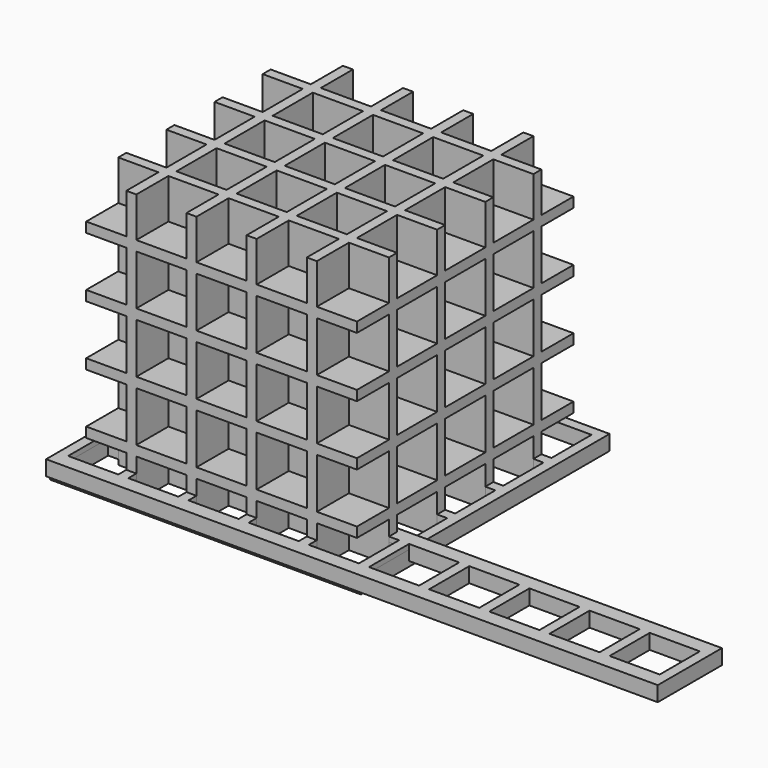
from build123d import *

# Parameters (mm, degrees)
BOX_W            = 10
BOX_H            = 10
BOX_DEPTH        = 10
ARRAY_X_COUNT    = 10
ARRAY_X_PITCH    = 12
BOX001_W         = 122
BOX001_H         = 16
BOX001_DEPTH     = 3
BOX002_W         = 10
BOX002_H         = 10
BOX002_DEPTH     = 10
ARRAY001_X_COUNT = 5
ARRAY001_X_PITCH = 12
ARRAY001_Y_COUNT = 5
ARRAY001_Y_PITCH = 12
BOX003_W         = 62
BOX003_H         = 62
BOX003_DEPTH     = 3
BOX004_W         = 10
BOX004_H         = 10
BOX004_DEPTH     = 10
ARRAY002_X_COUNT = 5
ARRAY002_X_PITCH = 12
ARRAY002_Y_COUNT = 5
ARRAY002_Y_PITCH = 12
ARRAY002_Z_COUNT = 5
ARRAY002_Z_PITCH = 12
BOX005_W         = 54
BOX005_H         = 54
BOX005_DEPTH     = 54


with BuildPart() as array:
    # Box → Box (new body)
    with BuildSketch(Plane.XY):
        with Locations((5, 5)):
            Rectangle(BOX_W, BOX_H)
    extrude(amount=BOX_DEPTH)

    # Array X: Array ×10


with BuildPart() as array_1:
    add(array.part)
    with Locations(*[(i * ARRAY_X_PITCH, 0, 0) for i in range(1, ARRAY_X_COUNT)]):
        add(array.part)


with BuildPart() as array_1d:
    # Box001 → Box001 (new body)
    with BuildSketch(Plane(origin=(-2, -3, 4), x_dir=(1, 0, 0), z_dir=(0, 0, 1))):
        with Locations((61, 8)):
            Rectangle(BOX001_W, BOX001_H)
    extrude(amount=BOX001_DEPTH)

    # Cut: cut Array
    add(array_1.part, mode=Mode.SUBTRACT)


with BuildPart() as array001:
    # Box002 → Box002 (new body)
    with BuildSketch(Plane.XY):
        with Locations((5, 5)):
            Rectangle(BOX002_W, BOX002_H)
    extrude(amount=BOX002_DEPTH)

    # Array001 X: Array001 ×5


with BuildPart() as array001_1:
    add(array001.part)
    with Locations(*[(i * ARRAY001_X_PITCH, 0, 0) for i in range(1, ARRAY001_X_COUNT)]):
        add(array001.part)

    # Array001 Y: Array001 ×5


with BuildPart() as array001_2:
    add(array001_1.part)
    with Locations(*[(0, i * ARRAY001_Y_PITCH, 0) for i in range(1, ARRAY001_Y_COUNT)]):
        add(array001_1.part)


with BuildPart() as array_2d:
    # Box003 → Box003 (new body)
    with BuildSketch(Plane(origin=(-2, -2, 3), x_dir=(1, 0, 0), z_dir=(0, 0, 1))):
        with Locations((31, 31)):
            Rectangle(BOX003_W, BOX003_H)
    extrude(amount=BOX003_DEPTH)

    # Cut001: cut Array001
    add(array001_2.part, mode=Mode.SUBTRACT)


with BuildPart() as array002:
    # Box004 → Box004 (new body)
    with BuildSketch(Plane.XY):
        with Locations((5, 5)):
            Rectangle(BOX004_W, BOX004_H)
    extrude(amount=BOX004_DEPTH)

    # Array002 X: Array002 ×5


with BuildPart() as array002_1:
    add(array002.part)
    with Locations(*[(i * ARRAY002_X_PITCH, 0, 0) for i in range(1, ARRAY002_X_COUNT)]):
        add(array002.part)

    # Array002 Y: Array002 ×5


with BuildPart() as array002_2:
    add(array002_1.part)
    with Locations(*[(0, i * ARRAY002_Y_PITCH, 0) for i in range(1, ARRAY002_Y_COUNT)]):
        add(array002_1.part)

    # Array002 Z: Array002 ×5


with BuildPart() as array002_3:
    add(array002_2.part)
    with Locations(*[(0, 0, i * ARRAY002_Z_PITCH) for i in range(1, ARRAY002_Z_COUNT)]):
        add(array002_2.part)


with BuildPart() as array_3d:
    # Box005 → Box005 (new body)
    with BuildSketch(Plane(origin=(2, 2, 2), x_dir=(1, 0, 0), z_dir=(0, 0, 1))):
        with Locations((27, 27)):
            Rectangle(BOX005_W, BOX005_H)
    extrude(amount=BOX005_DEPTH)

    # Cut002: cut Array002
    add(array002_3.part, mode=Mode.SUBTRACT)


solid = Compound([array_1d.part, array_2d.part, array_3d.part])
